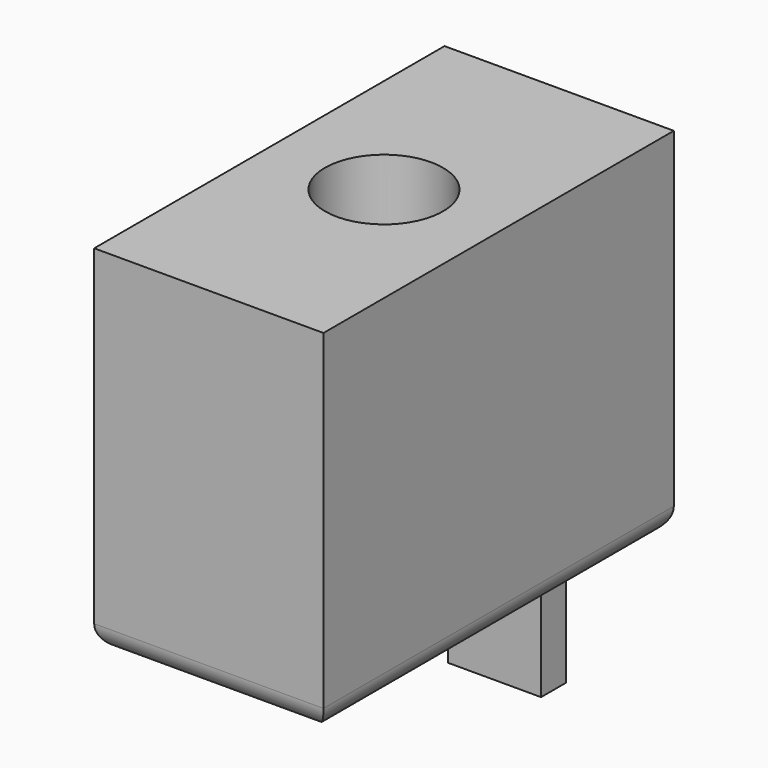
from build123d import *

# Parameters (mm, degrees)
F0_W     = 49.34406
F0_H     = 94.238028
F1_DEPTH = 76.2
F3_D     = 25.4
F4_R     = 5.08
F5_W     = 20.071493
F5_H     = 6.775275
F6_DEPTH = 25.4


with BuildPart() as f1:
    # F0 (on Top) → F1 (new body)
    with BuildSketch(Plane.XY):
        Rectangle(F0_W, F0_H)
    extrude(amount=F1_DEPTH)

    # F3 (through all)
    with Locations(Plane(origin=(0, 0, 0), x_dir=(1, 0, 0), z_dir=(0, 0, -1))):
        with Locations((0, 0)):
            Hole(F3_D / 2)

    # F4
    f4_edges = [f1.edges().sort_by_distance(p)[0] for p in [
        (0, 47.119014, 0),
        (-24.67203, 0, 0),
        (24.67203, 0, 0),
        (0, -47.119014, 0),
    ]]
    fillet(f4_edges, radius=F4_R)

    # F5 (on face) → F6 (join)
    with BuildSketch(Plane(origin=(0, 0, 0), x_dir=(1, 0, 0), z_dir=(0, 0, -1))):
        with Locations((4.061457, -28.014188)):
            Rectangle(F5_W, F5_H)
    extrude(amount=F6_DEPTH)


solid = f1.part
